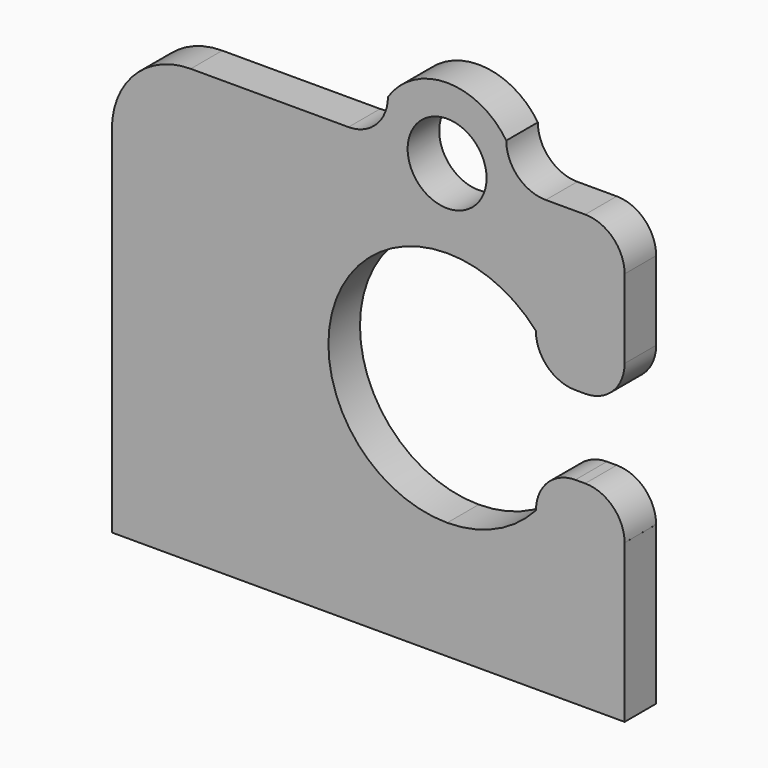
from build123d import *

# Parameters (mm, degrees)
EXTRUDE070_DEPTH                     = 5
EXTRUDE070_ONTO_SKETCH267_ROLL_ANGLE = 90
SKETCH268_AS_DRAWN_R                 = 1
EXTRUDE069_DEPTH                     = 10
EXTRUDE069_ONTO_SKETCH268_ROLL_ANGLE = 90
EXTRUDE071_DEPTH                     = 1
EXTRUDE071_ONTO_SKETCH266_ROLL_ANGLE = 90


with BuildPart() as extrude070:
    # Sketch267 as drawn → Extrude070 (new)
    with BuildSketch(Plane.XY):
        with BuildLine():
            ThreePointArc((8.500012, 10), (5.490931, 6.990186), (8.501267, 3.981628))
            ThreePointArc((8.501267, 3.981628), (9.735803, 4.24621), (10.754109, 4.992623))
            ThreePointArc((11.751661, 5.997636), (11.044132, 5.702333), (10.754109, 4.992623))
            Line((11.751661, 5.997636), (12.000229, 5.997636))
            ThreePointArc((12.999313, 4.999389), (12.706459, 5.705374), (12.000229, 5.997636))
            Line((12.999313, 4.999389), (15.5, 5))
            Line((15.5, 5), (15.5, 9))
            Line((13, 9), (15.5, 9))
            ThreePointArc((12, 8), (12.707107, 8.292893), (13, 9))
            Line((11.75, 8), (12, 8))
            ThreePointArc((10.75, 9), (11.042893, 8.292893), (11.75, 8))
            ThreePointArc((10.75, 9), (9.731212, 9.738962), (8.500012, 10))
        make_face()
    extrude(amount=-EXTRUDE070_DEPTH)


with BuildPart() as extrude070_1:
    # Extrude070 onto Sketch267 roll: moved
    add(extrude070.part.rotate(Axis((0, 0, 0), (1, 0, 0)), EXTRUDE070_ONTO_SKETCH267_ROLL_ANGLE))


with BuildPart() as extrude070_2:
    # Extrude070 onto Sketch267 placement: moved
    add(extrude070_1.part.moved(Location((0, 3, 0))))


with BuildPart() as extrude069:
    # Sketch268 as drawn → Extrude069 (new)
    with BuildSketch(Plane.XY):
        with Locations((8.5, 12)):
            Circle(SKETCH268_AS_DRAWN_R)
    extrude(amount=-EXTRUDE069_DEPTH)


with BuildPart() as extrude069_1:
    # Extrude069 onto Sketch268 roll: moved
    add(extrude069.part.rotate(Axis((0, 0, 0), (1, 0, 0)), EXTRUDE069_ONTO_SKETCH268_ROLL_ANGLE))


with BuildPart() as extrude069_2:
    # Extrude069 onto Sketch268 placement: moved
    add(extrude069_1.part.moved(Location((0, 4, 0))))


with BuildPart() as extrude069_3:
    # Extrude069 placement: moved
    add(extrude069_2.part.moved(Location((0, -2, 0))))


with BuildPart() as cut042:
    # Sketch266 as drawn → Extrude071 (new)
    with BuildSketch(Plane.XY):
        with BuildLine():
            Line((0, 1), (0, 10))
            ThreePointArc((2, 12), (0.585786, 11.414214), (0, 10))
            Line((2, 12), (6, 12))
            ThreePointArc((6, 12), (6.707107, 12.292893), (7, 13))
            ThreePointArc((10, 13.000001), (8.5, 13.802776), (7, 13))
            ThreePointArc((10, 13.000001), (10.292893, 12.292893), (11, 12))
            Line((12, 12), (11, 12))
            ThreePointArc((13, 11), (12.707107, 11.707107), (12, 12))
            Line((13, 1), (13, 11))
            Line((0, 1), (13, 1))
        make_face()
    extrude(amount=-EXTRUDE071_DEPTH)


with BuildPart() as cut042_1:
    # Extrude071 onto Sketch266 roll: moved
    add(cut042.part.rotate(Axis((0, 0, 0), (1, 0, 0)), EXTRUDE071_ONTO_SKETCH266_ROLL_ANGLE))


with BuildPart() as cut042_2:
    # Extrude071 onto Sketch266 placement: moved
    add(cut042_1.part.moved(Location((0, 6, 0))))

    # Cut041: cut Extrude069
    add(extrude069_3.part, mode=Mode.SUBTRACT)

    # Cut042: cut Extrude070
    add(extrude070_2.part, mode=Mode.SUBTRACT)


solid = cut042_2.part
